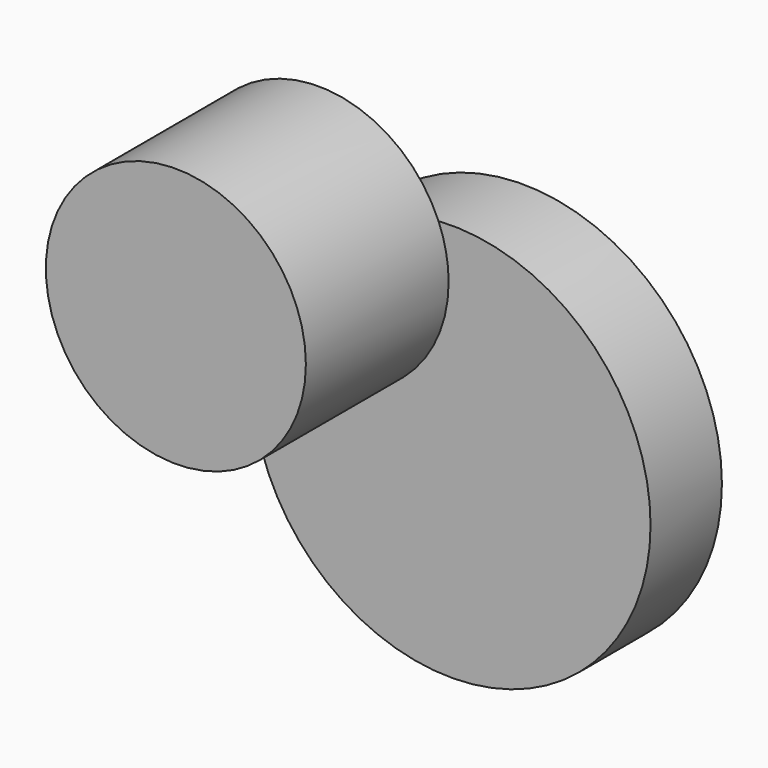
from build123d import *

# Parameters (mm, degrees)
F1_R      = 56.692647
F2_DEPTH  = 25.4
F3_R      = 37.015335
F4_DEPTH  = 25.4
F4_FACE_R = 37.015335
F5_DEPTH  = 25.4
F6_R      = 26.874767
F7_DEPTH  = 25.4


with BuildPart() as f2:
    # F1 (on face) → F2 (new body)
    with BuildSketch(Plane.XZ):
        with Locations((0, 18.79701)):
            Circle(F1_R)
    extrude(amount=F2_DEPTH)

    # F3 (on face) → F4 (join)
    with BuildSketch(Plane.XZ.offset(25.4)):
        with Locations((-37.807173, 61.042411)):
            Circle(F3_R)
    extrude(amount=F4_DEPTH)

    # F4_face (on face) → F5 (join)
    with BuildSketch(Plane(origin=(-37.807173, -50.8, 61.042411), x_dir=(1, 0, 0), z_dir=(0, -1, 0))):
        Circle(F4_FACE_R)
    extrude(amount=F5_DEPTH)

    # F6 (on face) → F7 (join)
    with BuildSketch(Plane.XZ):
        with Locations((0, 20.070814)):
            Circle(F6_R)
    extrude(amount=F7_DEPTH)


solid = f2.part
